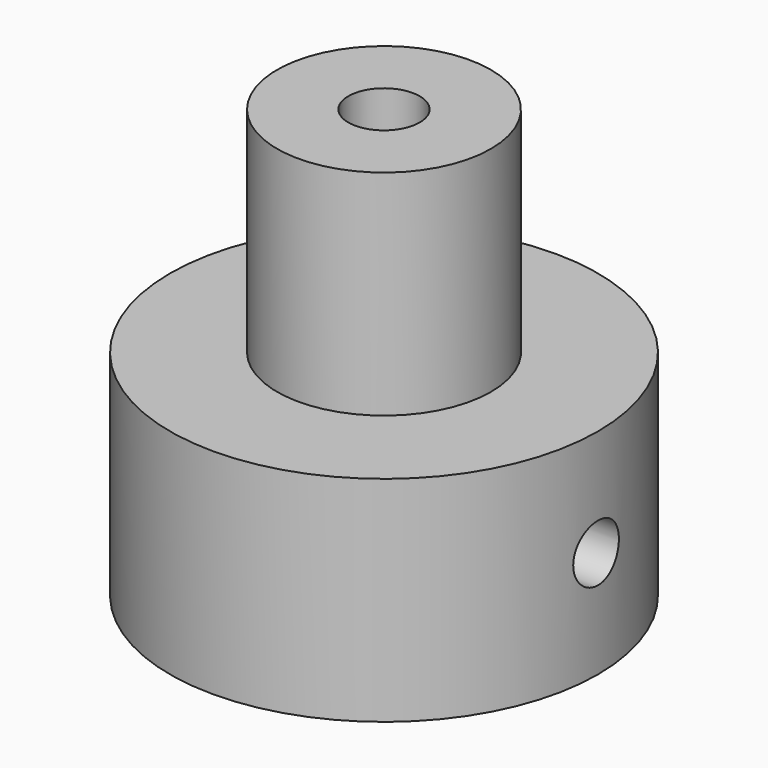
from build123d import *

# Parameters (mm, degrees)
F0_R     = 9.525
F0_R_2   = 1.5875
F1_DEPTH = 9.525
F2_R     = 4.7625
F2_R_2   = 1.5875
F3_DEPTH = 9.525
F5_R     = 1.27
F6_DEPTH = 9.525


with BuildPart() as f1:
    # F0 (on Top) → F1 (new body)
    with BuildSketch(Plane.XY):
        Circle(F0_R)
        Circle(F0_R_2, mode=Mode.SUBTRACT)
    extrude(amount=F1_DEPTH)

    # F2 (on face) → F3 (join)
    with BuildSketch(Plane.XY.offset(9.525)):
        Circle(F2_R)
        Circle(F2_R_2, mode=Mode.SUBTRACT)
    extrude(amount=F3_DEPTH)

    # F5 (on offset) → F6 (cut)
    with BuildSketch(Plane.YZ.offset(9.525)):
        with Locations((0, 4.7625)):
            Circle(F5_R)
    extrude(amount=-F6_DEPTH, mode=Mode.SUBTRACT)


solid = f1.part
